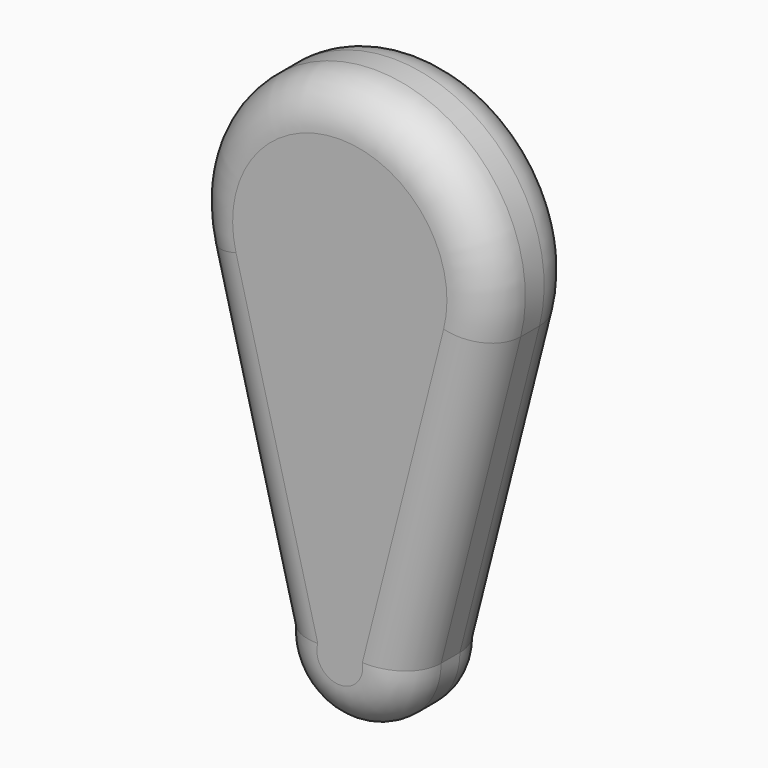
from build123d import *

# Parameters (mm, degrees)
F1_DEPTH = 6.35
F2_R     = 5


with BuildPart() as f1:
    # F0 (on Front) → F1 (new body, symmetric)
    with BuildSketch(Plane.XZ):
        with BuildLine():
            Line((7.633772, 0), (16.770028, 35.980467))
            ThreePointArc((16.770028, 35.980467), (-0.030189, 57.540952), (-16.755066, 35.921972))
            Line((-16.755066, 35.921972), (-7.619657, 0.46401))
            ThreePointArc((-7.619657, 0.46401), (-0.232112, -7.630242), (7.633772, 0))
        make_face()
    extrude(amount=F1_DEPTH, both=True)

    # F2
    f2_edges = [f1.edges().sort_by_distance(p)[0] for p in [
        (-0.030189, 6.35, 57.540952),
        (12.2019, 6.35, 17.990233),
        (-0.232112, 6.35, -7.630242),
        (-12.187361, 6.35, 18.192991),
        (-0.030189, -6.35, 57.540952),
        (-12.187361, -6.35, 18.192991),
        (-0.232112, -6.35, -7.630242),
    ]]
    fillet(f2_edges, radius=F2_R)


solid = f1.part
